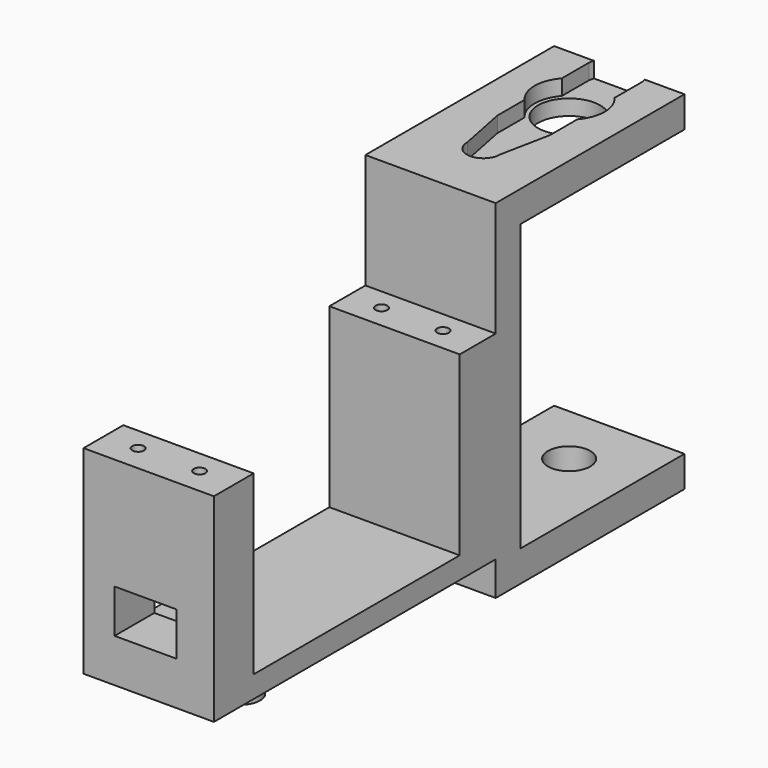
from build123d import *

# Parameters (mm, degrees)
CYLINDER030_R     = 3.4
CYLINDER030_DEPTH = 44
CYLINDER029_R     = 5
CYLINDER029_DEPTH = 9
PAD010_DEPTH      = 5
PAD009_DEPTH      = 21
CYLINDER034_R     = 0.95
CYLINDER034_DEPTH = 10
CYLINDER035_R     = 0.95
CYLINDER035_DEPTH = 10
CYLINDER032_R     = 0.95
CYLINDER032_DEPTH = 10
CYLINDER033_R     = 0.95
CYLINDER033_DEPTH = 10
BOX006_W          = 10
BOX006_H          = 10
BOX006_DEPTH      = 7
PAD011_DEPTH      = 21
CYLINDER031_R     = 3
CYLINDER031_DEPTH = 10


with BuildPart() as cylinder030:
    # Cylinder030 → Cylinder030 (new body)
    with BuildSketch(Plane(origin=(10.5, -10.1, -9), x_dir=(1, 0, 0), z_dir=(0, 0, 1))):
        Circle(CYLINDER030_R)
    extrude(amount=CYLINDER030_DEPTH)


with BuildPart() as cylinder029:
    # Cylinder029 → Cylinder029 (new body)
    with BuildSketch(Plane(origin=(10.5, -10.1, 45), x_dir=(1, 0, 0), z_dir=(0, 0, 1))):
        Circle(CYLINDER029_R)
    extrude(amount=CYLINDER029_DEPTH)


with BuildPart() as fusion024:
    # Sketch010 → Pad010 (new body)
    with BuildSketch(Plane.XY):
        with BuildLine():
            Line((-4.25, 3.75), (-4.25, 9.25))
            Line((-4.25, 9.25), (-2.65, 17.292388))
            ThreePointArc((2.65, 17.292388), (0, 20), (-2.65, 17.292388))
            Line((2.65, 17.292388), (4.25, 9.25))
            Line((4.25, 3.75), (4.25, 9.25))
            ThreePointArc((4.25, -3.75), (5.657274, 0), (4.25, 3.75))
            Line((4.25, -3.75), (4.25, -9.25))
            Line((2.65, -17.292388), (4.25, -9.25))
            ThreePointArc((-2.65, -17.292388), (0, -20), (2.65, -17.292388))
            Line((-4.25, -9.25), (-2.65, -17.292388))
            Line((-4.25, -3.75), (-4.25, -9.25))
            ThreePointArc((-4.25, 3.75), (-5.657274, 0), (-4.25, -3.75))
        make_face()
    extrude(amount=PAD010_DEPTH)


with BuildPart() as fusion024_1:
    # Body010 placement: moved
    add(fusion024.part.moved(Location((10.5, -10, 48))))

    # Fusion024: union Cylinder029
    add(cylinder029.part)


with BuildPart() as obj1:
    # Sketch009 → Pad009 (new body)
    with BuildSketch(Plane.YZ):
        Polygon((-33, -0.5), (0, -0.5), (0, -5.5), (-38, -5.5), (-38, 50.5), (0, 50.5), (0, 45.5), (-33, 45.5), align=None)
    extrude(amount=PAD009_DEPTH)

    # Cut014: cut Fusion024
    add(fusion024_1.part, mode=Mode.SUBTRACT)

    # Cut015: cut Cylinder030
    add(cylinder030.part, mode=Mode.SUBTRACT)


with BuildPart() as cylinder034:
    # Cylinder034 → Cylinder034 (new body)
    with BuildSketch(Plane(origin=(9.9, 0, 0), x_dir=(1, 0, 0), z_dir=(0, 0, 1))):
        Circle(CYLINDER034_R)
    extrude(amount=CYLINDER034_DEPTH)


with BuildPart() as tornillos013:
    # Cylinder035 → Cylinder035 (new body)
    with BuildSketch(Plane.XY):
        Circle(CYLINDER035_R)
    extrude(amount=CYLINDER035_DEPTH)

    # Fusion026: union Cylinder034
    add(cylinder034.part)


with BuildPart() as tornillos013_1:
    # Fusion026 placement: moved
    add(tornillos013.part.moved(Location((5, -24.5, 22))))


with BuildPart() as cylinder032:
    # Cylinder032 → Cylinder032 (new body)
    with BuildSketch(Plane(origin=(9.9, 0, 0), x_dir=(1, 0, 0), z_dir=(0, 0, 1))):
        Circle(CYLINDER032_R)
    extrude(amount=CYLINDER032_DEPTH)


with BuildPart() as fusion027:
    # Cylinder033 → Cylinder033 (new body)
    with BuildSketch(Plane.XY):
        Circle(CYLINDER033_R)
    extrude(amount=CYLINDER033_DEPTH)

    # Fusion025: union Cylinder032
    add(cylinder032.part)


with BuildPart() as fusion027_1:
    # Fusion025 placement: moved
    add(fusion027.part.moved(Location((5, 24.5, 22))))

    # Fusion027: union Tornillos013
    add(tornillos013_1.part)


with BuildPart() as fusion027_2:
    # Fusion027 placement: moved
    add(fusion027_1.part.moved(Location((0.4, 0, 0))))


with BuildPart() as cube006:
    # Box006 → Box006 (new body)
    with BuildSketch(Plane(origin=(5, -29, 7), x_dir=(1, 0, 0), z_dir=(0, 0, 1))):
        with Locations((5, 5)):
            Rectangle(BOX006_W, BOX006_H)
    extrude(amount=BOX006_DEPTH)


with BuildPart() as holder007:
    # Sketch011 → Pad011 (new body)
    with BuildSketch(Plane.YZ):
        Polygon((-28.75, 32), (-28.75, 0), (28.75, 0), (28.75, 32), (20.75, 32), (20.75, 3.5), (-20.75, 3.5), (-20.75, 32), align=None)
    extrude(amount=PAD011_DEPTH)

    # Cut016: cut Cube006
    add(cube006.part, mode=Mode.SUBTRACT)

    # Cut017: cut Fusion027
    add(fusion027_2.part, mode=Mode.SUBTRACT)


with BuildPart() as fusion029:
    # Cylinder031 → Cylinder031 (new body)
    with BuildSketch(Plane(origin=(10.5, -10.1, -7), x_dir=(1, 0, 0), z_dir=(0, 0, 1))):
        Circle(CYLINDER031_R)
    extrude(amount=CYLINDER031_DEPTH)

    # Fusion028: union Holder007
    add(holder007.part)


with BuildPart() as fusion029_1:
    # Fusion028 placement: moved
    add(fusion029.part.moved(Location((0, -66, 0))))

    # Fusion029: union obj1
    add(obj1.part)


solid = fusion029_1.part
